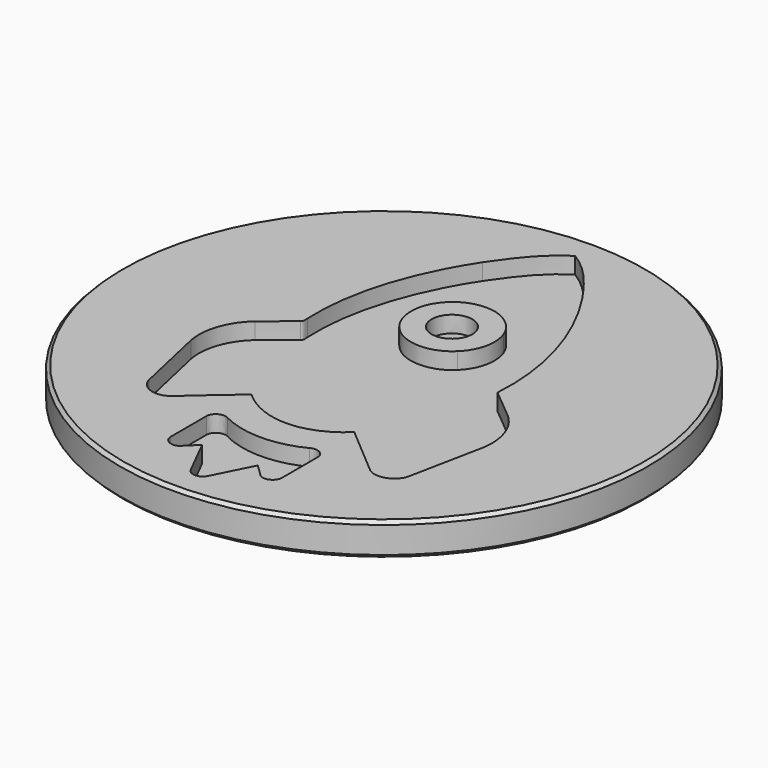
from build123d import *

# Parameters (mm, degrees)
POCKET_DEPTH = 1.25


with BuildPart() as part:
    # Sketch (on DatumPlane) → Revolution (revolve)
    with BuildSketch(Plane.YZ):
        Polygon((0, 0), (0, -2.5), (19.75, -2.5), (20, -2.25), (20, -0.25), (19.75, 0), align=None)
    revolve(axis=Axis((0, 0, 0), (0, 0, 1)))

    # Sketch005 → Pocket (cut)
    with BuildSketch(Plane.XY):
        with BuildLine():
            add(Edge.make_bspline(
                [(-3.689668, 13.94616), (-2.641611, 15.462794), (-1.516137, 17.02899), (0.085841, 18)],
                knots=[0, 0, 0, 0, 1, 1, 1, 1], degree=3))
            add(Edge.make_bspline(
                [(0.085841, 18), (1.66552, 17.053067), (2.779956, 15.514726), (3.813048, 14.024985)],
                knots=[0, 0, 0, 0, 1, 1, 1, 1], degree=3))
            add(Edge.make_bspline(
                [(3.813048, 14.024985), (6.246463, 10.339042), (7.734204, 5.911748), (7.434093, 1.462081)],
                knots=[0, 0, 0, 0, 1, 1, 1, 1], degree=3))
            add(Edge.make_bspline(
                [(7.434093, 1.462081), (8.220487, 0.802888), (9.029626, 0.169994), (9.804315, -0.502683)],
                knots=[0, 0, 0, 0, 1, 1, 1, 1], degree=3))
            add(Edge.make_bspline(
                [(9.804315, -0.502683), (10.91638, -1.524811), (11.43563, -3.119232), (11.167893, -4.601492)],
                knots=[0, 0, 0, 0, 1, 1, 1, 1], degree=3))
            add(Edge.make_bspline(
                [(11.167893, -4.601492), (10.794809, -6.473948), (10.436246, -8.350627), (10.041382, -10.217971)],
                knots=[0, 0, 0, 0, 1, 1, 1, 1], degree=3))
            add(Edge.make_bspline(
                [(10.041382, -10.217971), (9.821873, -11.178684), (8.522081, -11.618517), (7.757911, -11.004736)],
                knots=[0, 0, 0, 0, 1, 1, 1, 1], degree=3))
            add(Edge.make_bspline(
                [(7.757911, -11.004736), (6.48953, -9.946011), (5.252709, -8.848319), (3.984699, -7.78826)],
                knots=[0, 0, 0, 0, 1, 1, 1, 1], degree=3))
            add(Edge.make_bspline(
                [(3.984699, -7.78826), (3.02532, -8.711487), (1.750864, -9.327119), (0.412845, -9.401277)],
                knots=[0, 0, 0, 0, 1, 1, 1, 1], degree=3))
            add(Edge.make_bspline(
                [(0.412845, -9.401277), (-1.127422, -9.509883), (-2.652353, -8.871136), (-3.769011, -7.827598)],
                knots=[0, 0, 0, 0, 1, 1, 1, 1], degree=3))
            add(Edge.make_bspline(
                [(-3.769011, -7.827598), (-4.678754, -8.524056), (-5.522267, -9.360086), (-6.411119, -10.106031)],
                knots=[0, 0, 0, 0, 1, 1, 1, 1], degree=3))
            add(Edge.make_bspline(
                [(-6.411119, -10.106031), (-6.840728, -10.45126), (-7.197958, -10.904946), (-7.706392, -11.140679)],
                knots=[0, 0, 0, 0, 1, 1, 1, 1], degree=3))
            add(Edge.make_bspline(
                [(-7.706392, -11.140679), (-8.494639, -11.47887), (-9.509729, -10.97414), (-9.687899, -10.126849)],
                knots=[0, 0, 0, 0, 1, 1, 1, 1], degree=3))
            add(Edge.make_bspline(
                [(-9.687899, -10.126849), (-10.093802, -8.301287), (-10.517855, -6.478985), (-10.911756, -4.650609)],
                knots=[0, 0, 0, 0, 1, 1, 1, 1], degree=3))
            add(Edge.make_bspline(
                [(-10.911756, -4.650609), (-11.23187, -3.103897), (-10.66491, -1.419835), (-9.473131, -0.38289)],
                knots=[0, 0, 0, 0, 1, 1, 1, 1], degree=3))
            add(Edge.make_bspline(
                [(-9.473131, -0.38289), (-8.783193, 0.19659), (-8.083624, 0.764438), (-7.380796, 1.328138)],
                knots=[0, 0, 0, 0, 1, 1, 1, 1], degree=3))
            add(Edge.make_bspline(
                [(-7.380796, 1.328138), (-7.184994, 1.431114), (-7.283376, 1.668625), (-7.272264, 1.843092)],
                knots=[0, 0, 0, 0, 1, 1, 1, 1], degree=3))
            add(Edge.make_bspline(
                [(-7.272264, 1.843092), (-7.481771, 6.136295), (-6.015292, 10.379862), (-3.689668, 13.94616)],
                knots=[0, 0, 0, 0, 1, 1, 1, 1], degree=3))
        make_face()
        with BuildLine():
            add(Edge.make_bspline(
                [(-2.444846, 8.291231), (-3.365257, 7.106342), (-3.25391, 5.271002), (-2.186443, 4.212795)],
                knots=[0, 0, 0, 0, 1, 1, 1, 1], degree=3))
            add(Edge.make_bspline(
                [(-2.186443, 4.212795), (-1.056302, 2.967529), (1.084336, 2.922115), (2.26641, 4.117228)],
                knots=[0, 0, 0, 0, 1, 1, 1, 1], degree=3))
            add(Edge.make_bspline(
                [(2.26641, 4.117228), (3.178894, 4.950888), (3.487451, 6.350544), (3.051916, 7.500688)],
                knots=[0, 0, 0, 0, 1, 1, 1, 1], degree=3))
            add(Edge.make_bspline(
                [(3.051916, 7.500688), (2.652829, 8.609493), (1.584399, 9.441301), (0.409289, 9.544721)],
                knots=[0, 0, 0, 0, 1, 1, 1, 1], degree=3))
            add(Edge.make_bspline(
                [(0.409289, 9.544721), (-0.675884, 9.669626), (-1.799506, 9.170378), (-2.444846, 8.291231)],
                knots=[0, 0, 0, 0, 1, 1, 1, 1], degree=3))
        make_face(mode=Mode.SUBTRACT)
        with BuildLine():
            add(Edge.make_bspline(
                [(-4.128908, -11.658892), (-4.144688, -11.120603), (-3.474752, -10.750482), (-3.021955, -11.035333)],
                knots=[0, 0, 0, 0, 1, 1, 1, 1], degree=3))
            add(Edge.make_bspline(
                [(-3.021955, -11.035333), (-1.105419, -12.022123), (1.276879, -12.021678), (3.193341, -11.034814)],
                knots=[0, 0, 0, 0, 1, 1, 1, 1], degree=3))
            add(Edge.make_bspline(
                [(3.193341, -11.034814), (3.633173, -10.76478), (4.285033, -11.089117), (4.301257, -11.612886)],
                knots=[0, 0, 0, 0, 1, 1, 1, 1], degree=3))
            add(Edge.make_bspline(
                [(4.301257, -11.612886), (4.307702, -12.75614), (4.309036, -13.90058), (4.303035, -15.044204)],
                knots=[0, 0, 0, 0, 1, 1, 1, 1], degree=3))
            add(Edge.make_bspline(
                [(4.303035, -15.044204), (4.311851, -15.602274), (3.574648, -15.95817), (3.141334, -15.609164)],
                knots=[0, 0, 0, 0, 1, 1, 1, 1], degree=3))
            add(Edge.make_bspline(
                [(3.141334, -15.609164), (2.811515, -15.318312), (2.514071, -14.991235), (2.196772, -14.686011)],
                knots=[0, 0, 0, 0, 1, 1, 1, 1], degree=3))
            add(Edge.make_bspline(
                [(2.196772, -14.686011), (1.694783, -15.663985), (1.221613, -16.656776), (0.715475, -17.632454)],
                knots=[0, 0, 0, 0, 1, 1, 1, 1], degree=3))
            add(Edge.make_bspline(
                [(0.715475, -17.632454), (0.472408, -18.097326), (-0.287094, -18.100512), (-0.534829, -17.640232)],
                knots=[0, 0, 0, 0, 1, 1, 1, 1], degree=3))
            add(Edge.make_bspline(
                [(-0.534829, -17.640232), (-1.043782, -16.662703), (-1.513692, -15.663985), (-2.02546, -14.687419)],
                knots=[0, 0, 0, 0, 1, 1, 1, 1], degree=3))
            add(Edge.make_bspline(
                [(-2.02546, -14.687419), (-2.338166, -14.995383), (-2.636499, -15.320683), (-2.965874, -15.61109)],
                knots=[0, 0, 0, 0, 1, 1, 1, 1], degree=3))
            add(Edge.make_bspline(
                [(-2.965874, -15.61109), (-3.397335, -15.9618), (-4.133131, -15.599088), (-4.12713, -15.044575)],
                knots=[0, 0, 0, 0, 1, 1, 1, 1], degree=3))
            add(Edge.make_bspline(
                [(-4.12713, -15.044575), (-4.136316, -13.916359), (-4.130315, -12.787626), (-4.128908, -11.658892)],
                knots=[0, 0, 0, 0, 1, 1, 1, 1], degree=3))
        make_face()
        with BuildLine():
            add(Edge.make_bspline(
                [(1.60366, 6.366324), (1.60366, 9.036838), (-0.709074, 7.701581), (-3.021807, 6.366324), (-0.709074, 5.031066), (1.60366, 3.695809), (1.60366, 6.366324)],
                knots=[0, 0, 0, 2.094395, 2.094395, 4.18879, 4.18879, 6.283185, 6.283185, 6.283185], degree=2, weights=[1, 0.5, 1, 0.5, 1, 0.5, 1]))
        make_face()
    extrude(amount=-POCKET_DEPTH, mode=Mode.SUBTRACT)


solid = part.part
